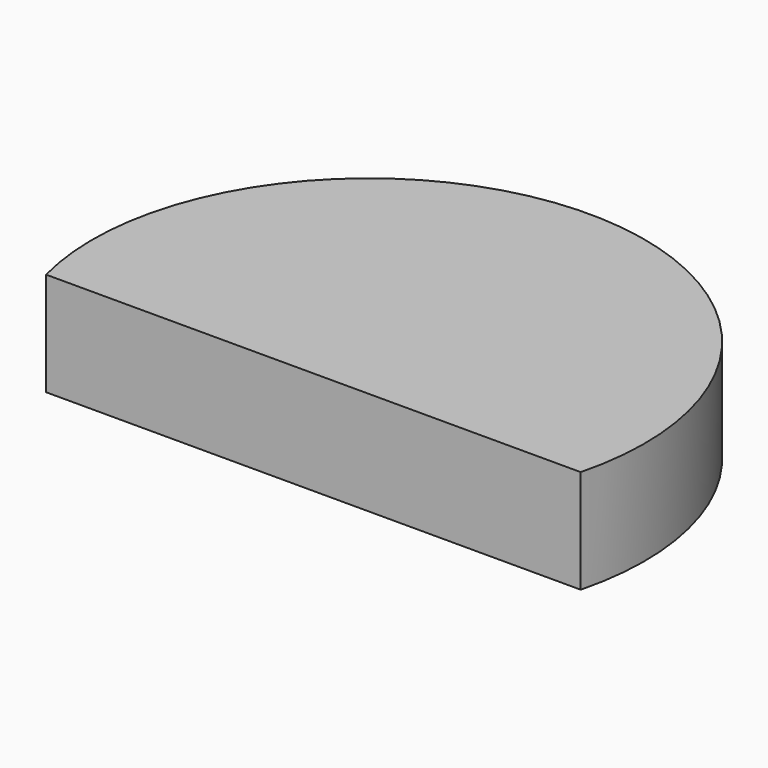
from build123d import *

# Parameters (mm, degrees)
BOX251_W          = 148
BOX251_H          = 40
BOX251_DEPTH      = 40
CYLINDER674_R     = 16
CYLINDER674_DEPTH = 6


with BuildPart() as krychle251:
    # Box251 → Box251 (new body)
    with BuildSketch(Plane(origin=(-74, 42, 16), x_dir=(1, 0, 0), z_dir=(0, 0, 1))):
        with Locations((74, 20)):
            Rectangle(BOX251_W, BOX251_H)
    extrude(amount=BOX251_DEPTH)


with BuildPart() as cut268:
    # Cylinder674 → Cylinder674 (new body)
    with BuildSketch(Plane(origin=(0, 86, 16), x_dir=(1, 0, 0), z_dir=(0, 0, 1))):
        Circle(CYLINDER674_R)
    extrude(amount=CYLINDER674_DEPTH)

    # Cut268: cut Krychle251
    add(krychle251.part, mode=Mode.SUBTRACT)


solid = cut268.part
